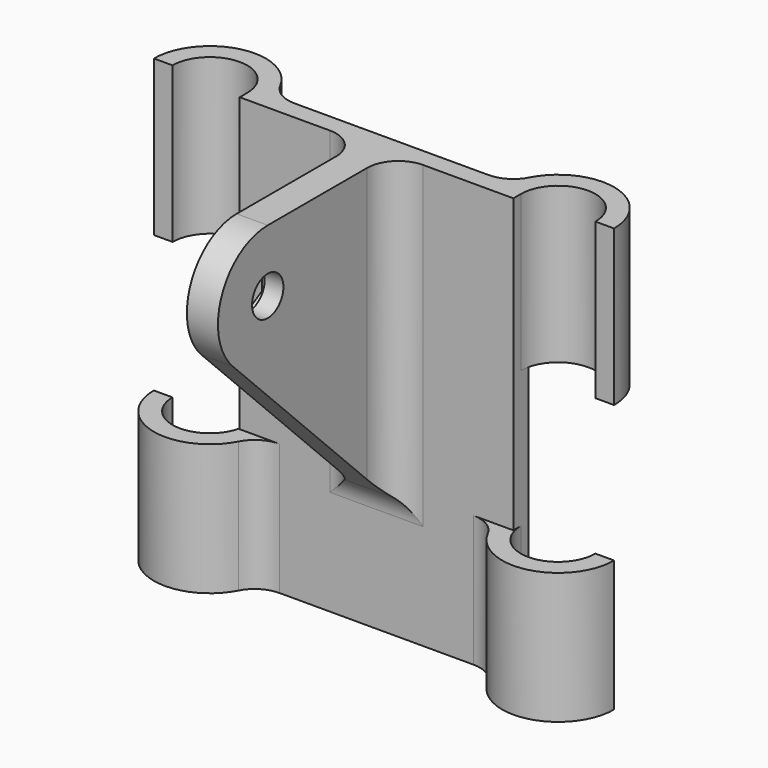
from build123d import *

# Parameters (mm, degrees)
F1_DEPTH = 21.1
F3_DEPTH = 22
F5_DEPTH = 25
F6_R     = 3.15
F7_DEPTH = 2.5
F8_R     = 3.15
F9_DEPTH = 2
F10_R    = 5
F11_R    = 5
F12_R    = 5


with BuildPart() as f1:
    # F0 (on Top) → F1 (new body)
    with BuildSketch(Plane.XY):
        with BuildLine():
            ThreePointArc((-22, 0), (-28, -6), (-34, 0))
            Line((-34, 0), (-37, 0))
            ThreePointArc((-37, 0), (-28.7526363425, -8.9684747051), (-19.1258803254, -1.5))
            Line((-19.1258803254, -1.5), (19.1258803254, -1.5))
            ThreePointArc((19.1258803254, -1.5), (28.7526363425, -8.9684747051), (37, 0))
            Line((37, 0), (34, 0))
            ThreePointArc((34, 0), (28, -6), (22, 0))
            Line((22, 0), (22, 1.5))
            Line((22, 1.5), (-22, 1.5))
            Line((-22, 1.5), (-22, 0))
        make_face()
    extrude(amount=F1_DEPTH)

    # F2 (on face) → F3 (join)
    with BuildSketch(Plane.XY.offset(21.1)):
        Polygon((-22, 0), (-22, -1.5), (-19.1258803254, -1.5), (19.1258803254, -1.5), (22, -1.5), (22, 0), (22, 1.5), (-22, 1.5), align=None)
    extrude(amount=F3_DEPTH)

    # F4 (on face) → F5 (join)
    with BuildSketch(Plane.XY.offset(43.1)):
        with BuildLine():
            ThreePointArc((-34, 0), (-28, 6), (-22, 0))
            Line((-22, 0), (-22, -1.5))
            Line((-22, -1.5), (22, -1.5))
            Line((22, -1.5), (22, 0))
            ThreePointArc((22, 0), (28, 6), (34, 0))
            Line((34, 0), (37, 0))
            ThreePointArc((37, 0), (28.7526363425, 8.9684747051), (19.1258803254, 1.5))
            Line((19.1258803254, 1.5), (-19.1258803254, 1.5))
            ThreePointArc((-19.1258803254, 1.5), (-28.7526363425, 8.9684747051), (-37, 0))
            Line((-37, 0), (-34, 0))
        make_face()
    extrude(amount=F5_DEPTH)

    # F6 (on Right) → F7 (join, symmetric)
    with BuildSketch(Plane.YZ):
        with BuildLine():
            Line((0, 68.1), (-26.5, 68.1))
            ThreePointArc((-26.5, 68.1), (-35.7387953251, 61.9268343237), (-33.5710678119, 51.0289321881))
            Line((-33.5710678119, 51.0289321881), (0, 17.4578643763))
            Line((0, 17.4578643763), (0, 68.1))
        make_face()
        with Locations((-26.5, 58.1)):
            Circle(F6_R, mode=Mode.SUBTRACT)
    extrude(amount=F7_DEPTH, both=True)

    # F8 (on face) → F9 (cut)
    with BuildSketch(Plane(origin=(-2.5, 0, 0), x_dir=(0, -1, 0), z_dir=(-1, 0, 0))):
        Polygon((31.65, 61.0733538863), (26.5, 64.0467077727), (21.35, 61.0733538863), (21.35, 55.1266461137), (26.5, 52.1532922273), (31.65, 55.1266461137), align=None)
        with Locations((26.5, 58.1)):
            Circle(F8_R, mode=Mode.SUBTRACT)
    extrude(amount=-F9_DEPTH, mode=Mode.SUBTRACT)

    # F10
    f10_edges = [f1.edges().sort_by_distance(p)[0] for p in [
        (-2.5, -1.5, 43.528932),
        (2.5, -1.5, 43.528932),
    ]]
    fillet(f10_edges, radius=F10_R)

    # F11
    f11_edges = [f1.edges().sort_by_distance(p)[0] for p in [
        (0, -1.5, 18.957864),
    ]]
    fillet(f11_edges, radius=F11_R)

    # F12
    f12_edges = [f1.edges().sort_by_distance(p)[0] for p in [
        (-19.12588, -1.5, 10.55),
        (19.12588, -1.5, 10.55),
        (-19.12588, 1.5, 55.6),
        (19.12588, 1.5, 55.6),
    ]]
    fillet(f12_edges, radius=F12_R)


solid = f1.part
